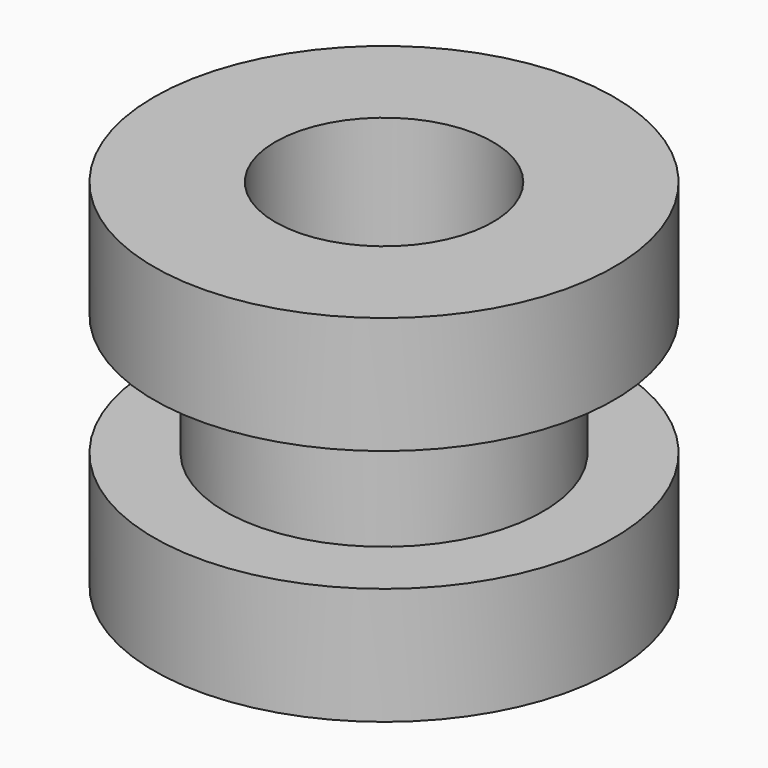
from build123d import *


with BuildPart() as part:
    # Sketch → Revolution (revolve)
    with BuildSketch(Plane.XZ):
        Polygon((-1.3, 0), (-1.3, 4.25), (-2.75, 4.25), (-2.75, 2.85), (-1.9, 2.85), (-1.9, 1.4), (-2.75, 1.4), (-2.75, 0), align=None)
    revolve(axis=Axis((0, 0, 0), (0, 0, 1)))


solid = part.part
